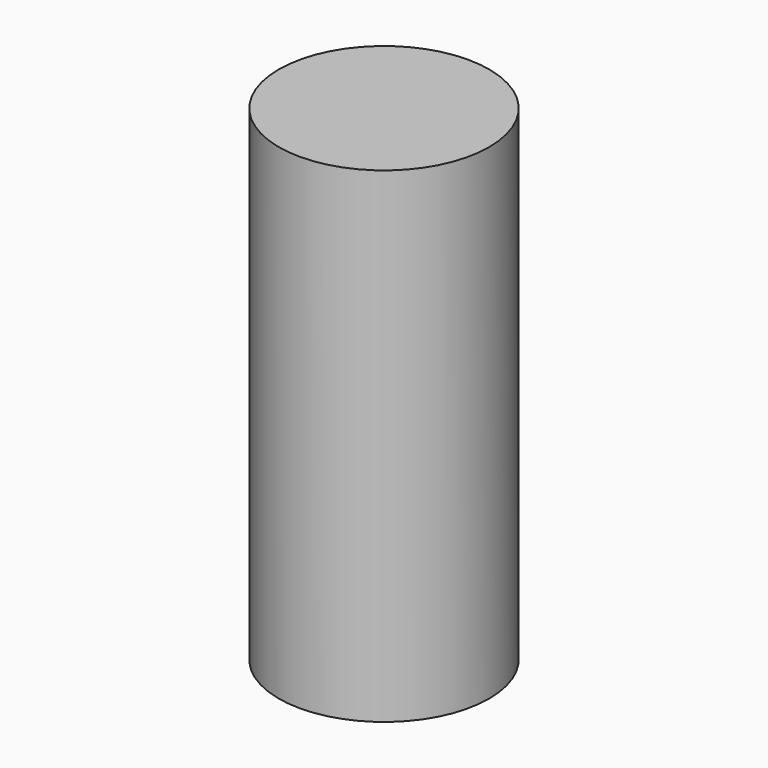
from build123d import *

# Parameters (mm, degrees)
F0_R     = 3.25
F1_DEPTH = 15
F2_R     = 1.75
F3_DEPTH = 9
F5_R     = 1.75
F6_DEPTH = 4


with BuildPart() as f1:
    # F0 (on Top) → F1 (new body)
    with BuildSketch(Plane.XY):
        Circle(F0_R)
    extrude(amount=F1_DEPTH)

    # F2 (on face) → F3 (cut)
    with BuildSketch(Plane(origin=(0, 0, 0), x_dir=(1, 0, 0), z_dir=(0, 0, -1))):
        Circle(F2_R)
    extrude(amount=-F3_DEPTH, mode=Mode.SUBTRACT)

    # F5 (on offset) → F6 (cut)
    with BuildSketch(Plane(origin=(0, 0, 10), x_dir=(1, 0, 0), z_dir=(0, 0, -1))):
        Circle(F5_R)
    extrude(amount=-F6_DEPTH, mode=Mode.SUBTRACT)


solid = f1.part
